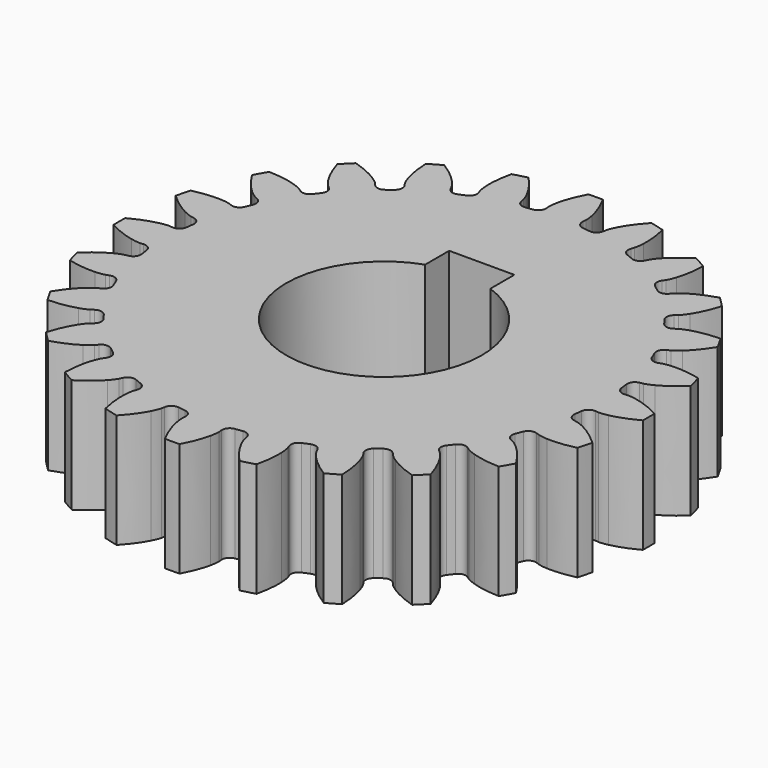
from build123d import *

# Parameters (mm, degrees)
PAD_DEPTH    = 7
POCKET_DEPTH = 7.001


with BuildPart() as part:
    # InvoluteGear → Pad (new body)
    with BuildSketch(Plane.XY):
        with BuildLine():
            Line((13.867609, -1.116726), (14.073733, -1.132384))
            add(Edge.make_bspline(
                [(14.073733, -1.132384), (14.136716, -1.133799), (14.326428, -1.130795), (14.642524, -1.063764)],
                knots=[0, 0, 0, 0, 1, 1, 1, 1], degree=3))
            add(Edge.make_bspline(
                [(14.642524, -1.063764), (15.021094, -0.982429), (15.567401, -0.810008), (16.245165, -0.446688)],
                knots=[0, 0, 0, 0, 1, 1, 1, 1], degree=3))
            ThreePointArc((16.245165, -0.446688), (16.250653, 0.000246), (16.243846, 0.447163))
            add(Edge.make_bspline(
                [(16.243846, 0.447163), (15.567401, 0.810008), (15.021094, 0.982429), (14.642524, 1.063764)],
                knots=[0, 0, 0, 0, 1, 1, 1, 1], degree=3))
            add(Edge.make_bspline(
                [(14.642524, 1.063764), (14.326428, 1.130795), (14.136716, 1.133799), (14.073733, 1.132384)],
                knots=[0, 0, 0, 0, 1, 1, 1, 1], degree=3))
            Line((14.073733, 1.132384), (13.867609, 1.116726))
            ThreePointArc((13.867609, 1.116726), (13.523014, 1.219895), (13.349538, 1.535006))
            ThreePointArc((13.349538, 1.535006), (13.32254, 1.753946), (13.291952, 1.972413))
            ThreePointArc((13.291952, 1.972413), (13.377961, 2.321686), (13.684112, 2.510527))
            Line((13.684112, 2.510527), (13.887265, 2.548751))
            add(Edge.make_bspline(
                [(13.887265, 2.548751), (13.948467, 2.563686), (14.130938, 2.615688), (14.418915, 2.762247)],
                knots=[0, 0, 0, 0, 1, 1, 1, 1], degree=3))
            add(Edge.make_bspline(
                [(14.418915, 2.762247), (14.763534, 2.938791), (15.246601, 3.246732), (15.807236, 3.773091)],
                knots=[0, 0, 0, 0, 1, 1, 1, 1], degree=3))
            ThreePointArc((15.807236, 3.773091), (15.696862, 4.206216), (15.574617, 4.636143))
            add(Edge.make_bspline(
                [(15.574617, 4.636143), (14.827309, 4.811548), (14.254991, 4.836699), (13.86827, 4.817282)],
                knots=[0, 0, 0, 0, 1, 1, 1, 1], degree=3))
            add(Edge.make_bspline(
                [(13.86827, 4.817282), (13.545595, 4.800217), (13.36157, 4.754017), (13.3011, 4.73635)],
                knots=[0, 0, 0, 0, 1, 1, 1, 1], degree=3))
            Line((13.3011, 4.73635), (13.106052, 4.667875))
            ThreePointArc((13.106052, 4.667875), (12.746497, 4.678341), (12.497375, 4.937817))
            ThreePointArc((12.497375, 4.937817), (12.414631, 5.142309), (12.328542, 5.345415))
            ThreePointArc((12.328542, 5.345415), (12.321221, 5.705047), (12.568065, 5.966692))
            Line((12.568065, 5.966692), (12.754403, 6.056193))
            add(Edge.make_bspline(
                [(12.754403, 6.056193), (12.809654, 6.08646), (12.972448, 6.183916), (13.21268, 6.400015)],
                knots=[0, 0, 0, 0, 1, 1, 1, 1], degree=3))
            add(Edge.make_bspline(
                [(13.21268, 6.400015), (13.499864, 6.659738), (13.886769, 7.082213), (14.29207, 7.73574)],
                knots=[0, 0, 0, 0, 1, 1, 1, 1], degree=3))
            ThreePointArc((14.29207, 7.73574), (14.073355, 8.12554), (13.844002, 8.509177))
            add(Edge.make_bspline(
                [(13.844002, 8.509177), (13.076761, 8.485188), (12.517434, 8.361356), (12.148916, 8.242509)],
                knots=[0, 0, 0, 0, 1, 1, 1, 1], degree=3))
            add(Edge.make_bspline(
                [(12.148916, 8.242509), (11.841653, 8.142511), (11.675856, 8.050256), (11.622018, 8.01754)],
                knots=[0, 0, 0, 0, 1, 1, 1, 1], degree=3))
            Line((11.622018, 8.01754), (11.451339, 7.900917))
            ThreePointArc((11.451339, 7.900917), (11.101327, 7.817967), (10.793536, 8.004123))
            ThreePointArc((10.793536, 8.004123), (10.660686, 8.180232), (10.524962, 8.354135))
            ThreePointArc((10.524962, 8.354135), (10.424811, 8.699619), (10.595525, 9.016236))
            Line((10.595525, 9.016236), (10.752349, 9.150916))
            add(Edge.make_bspline(
                [(10.752349, 9.150916), (10.797884, 9.194451), (10.929907, 9.330721), (11.106023, 9.601633)],
                knots=[0, 0, 0, 0, 1, 1, 1, 1], degree=3))
            add(Edge.make_bspline(
                [(11.106023, 9.601633), (11.3162, 9.926835), (11.580577, 10.435053), (11.802923, 11.171211)],
                knots=[0, 0, 0, 0, 1, 1, 1, 1], degree=3))
            ThreePointArc((11.802923, 11.171211), (11.490773, 11.491121), (11.169942, 11.802326))
            add(Edge.make_bspline(
                [(11.169942, 11.802326), (10.435053, 11.580577), (9.926835, 11.3162), (9.601633, 11.106023)],
                knots=[0, 0, 0, 0, 1, 1, 1, 1], degree=3))
            add(Edge.make_bspline(
                [(9.601633, 11.106023), (9.330721, 10.929907), (9.194451, 10.797884), (9.150916, 10.752349)],
                knots=[0, 0, 0, 0, 1, 1, 1, 1], degree=3))
            Line((9.150916, 10.752349), (9.016236, 10.595525))
            ThreePointArc((9.016236, 10.595525), (8.699619, 10.424811), (8.354135, 10.524962))
            ThreePointArc((8.354135, 10.524962), (8.180232, 10.660686), (8.004123, 10.793536))
            ThreePointArc((8.004123, 10.793536), (7.817967, 11.101327), (7.900917, 11.451339))
            Line((7.900917, 11.451339), (8.01754, 11.622018))
            add(Edge.make_bspline(
                [(8.01754, 11.622018), (8.050256, 11.675856), (8.142511, 11.841653), (8.242509, 12.148916)],
                knots=[0, 0, 0, 0, 1, 1, 1, 1], degree=3))
            add(Edge.make_bspline(
                [(8.242509, 12.148916), (8.361356, 12.517434), (8.485188, 13.076761), (8.509426, 13.845382)],
                knots=[0, 0, 0, 0, 1, 1, 1, 1], degree=3))
            ThreePointArc((8.509426, 13.845382), (8.125113, 14.073602), (7.734669, 14.291165))
            add(Edge.make_bspline(
                [(7.734669, 14.291165), (7.082213, 13.886769), (6.659738, 13.499864), (6.400015, 13.21268)],
                knots=[0, 0, 0, 0, 1, 1, 1, 1], degree=3))
            add(Edge.make_bspline(
                [(6.400015, 13.21268), (6.183916, 12.972448), (6.08646, 12.809654), (6.056193, 12.754403)],
                knots=[0, 0, 0, 0, 1, 1, 1, 1], degree=3))
            Line((6.056193, 12.754403), (5.966692, 12.568065))
            ThreePointArc((5.966692, 12.568065), (5.705047, 12.321221), (5.345415, 12.328542))
            ThreePointArc((5.345415, 12.328542), (5.142309, 12.414631), (4.937817, 12.497375))
            ThreePointArc((4.937817, 12.497375), (4.678341, 12.746497), (4.667875, 13.106052))
            Line((4.667875, 13.106052), (4.73635, 13.3011))
            add(Edge.make_bspline(
                [(4.73635, 13.3011), (4.754017, 13.36157), (4.800217, 13.545595), (4.817282, 13.86827)],
                knots=[0, 0, 0, 0, 1, 1, 1, 1], degree=3))
            add(Edge.make_bspline(
                [(4.817282, 13.86827), (4.836699, 14.254991), (4.811548, 14.827309), (4.636026, 15.576014)],
                knots=[0, 0, 0, 0, 1, 1, 1, 1], degree=3))
            ThreePointArc((4.636026, 15.576014), (4.205741, 15.696989), (3.772291, 15.806085))
            add(Edge.make_bspline(
                [(3.772291, 15.806085), (3.246732, 15.246601), (2.938791, 14.763534), (2.762247, 14.418915)],
                knots=[0, 0, 0, 0, 1, 1, 1, 1], degree=3))
            add(Edge.make_bspline(
                [(2.762247, 14.418915), (2.615688, 14.130938), (2.563686, 13.948467), (2.548751, 13.887265)],
                knots=[0, 0, 0, 0, 1, 1, 1, 1], degree=3))
            Line((2.548751, 13.887265), (2.510527, 13.684112))
            ThreePointArc((2.510527, 13.684112), (2.321686, 13.377961), (1.972413, 13.291952))
            ThreePointArc((1.972413, 13.291952), (1.753946, 13.32254), (1.535006, 13.349538))
            ThreePointArc((1.535006, 13.349538), (1.219895, 13.523014), (1.116726, 13.867609))
            Line((1.116726, 13.867609), (1.132384, 14.073733))
            add(Edge.make_bspline(
                [(1.132384, 14.073733), (1.133799, 14.136716), (1.130795, 14.326428), (1.063764, 14.642524)],
                knots=[0, 0, 0, 0, 1, 1, 1, 1], degree=3))
            add(Edge.make_bspline(
                [(1.063764, 14.642524), (0.982429, 15.021094), (0.810008, 15.567401), (0.446688, 16.245165)],
                knots=[0, 0, 0, 0, 1, 1, 1, 1], degree=3))
            ThreePointArc((0.446688, 16.245165), (-0.000246, 16.250653), (-0.447163, 16.243846))
            add(Edge.make_bspline(
                [(-0.447163, 16.243846), (-0.810008, 15.567401), (-0.982429, 15.021094), (-1.063764, 14.642524)],
                knots=[0, 0, 0, 0, 1, 1, 1, 1], degree=3))
            add(Edge.make_bspline(
                [(-1.063764, 14.642524), (-1.130795, 14.326428), (-1.133799, 14.136716), (-1.132384, 14.073733)],
                knots=[0, 0, 0, 0, 1, 1, 1, 1], degree=3))
            Line((-1.132384, 14.073733), (-1.116726, 13.867609))
            ThreePointArc((-1.116726, 13.867609), (-1.219895, 13.523014), (-1.535006, 13.349538))
            ThreePointArc((-1.535006, 13.349538), (-1.753946, 13.32254), (-1.972413, 13.291952))
            ThreePointArc((-1.972413, 13.291952), (-2.321686, 13.377961), (-2.510527, 13.684112))
            Line((-2.510527, 13.684112), (-2.548751, 13.887265))
            add(Edge.make_bspline(
                [(-2.548751, 13.887265), (-2.563686, 13.948467), (-2.615688, 14.130938), (-2.762247, 14.418915)],
                knots=[0, 0, 0, 0, 1, 1, 1, 1], degree=3))
            add(Edge.make_bspline(
                [(-2.762247, 14.418915), (-2.938791, 14.763534), (-3.246732, 15.246601), (-3.773091, 15.807236)],
                knots=[0, 0, 0, 0, 1, 1, 1, 1], degree=3))
            ThreePointArc((-3.773091, 15.807236), (-4.206216, 15.696862), (-4.636143, 15.574617))
            add(Edge.make_bspline(
                [(-4.636143, 15.574617), (-4.811548, 14.827309), (-4.836699, 14.254991), (-4.817282, 13.86827)],
                knots=[0, 0, 0, 0, 1, 1, 1, 1], degree=3))
            add(Edge.make_bspline(
                [(-4.817282, 13.86827), (-4.800217, 13.545595), (-4.754017, 13.36157), (-4.73635, 13.3011)],
                knots=[0, 0, 0, 0, 1, 1, 1, 1], degree=3))
            Line((-4.73635, 13.3011), (-4.667875, 13.106052))
            ThreePointArc((-4.667875, 13.106052), (-4.678341, 12.746497), (-4.937817, 12.497375))
            ThreePointArc((-4.937817, 12.497375), (-5.142309, 12.414631), (-5.345415, 12.328542))
            ThreePointArc((-5.345415, 12.328542), (-5.705047, 12.321221), (-5.966692, 12.568065))
            Line((-5.966692, 12.568065), (-6.056193, 12.754403))
            add(Edge.make_bspline(
                [(-6.056193, 12.754403), (-6.08646, 12.809654), (-6.183916, 12.972448), (-6.400015, 13.21268)],
                knots=[0, 0, 0, 0, 1, 1, 1, 1], degree=3))
            add(Edge.make_bspline(
                [(-6.400015, 13.21268), (-6.659738, 13.499864), (-7.082213, 13.886769), (-7.73574, 14.29207)],
                knots=[0, 0, 0, 0, 1, 1, 1, 1], degree=3))
            ThreePointArc((-7.73574, 14.29207), (-8.12554, 14.073355), (-8.509177, 13.844002))
            add(Edge.make_bspline(
                [(-8.509177, 13.844002), (-8.485188, 13.076761), (-8.361356, 12.517434), (-8.242509, 12.148916)],
                knots=[0, 0, 0, 0, 1, 1, 1, 1], degree=3))
            add(Edge.make_bspline(
                [(-8.242509, 12.148916), (-8.142511, 11.841653), (-8.050256, 11.675856), (-8.01754, 11.622018)],
                knots=[0, 0, 0, 0, 1, 1, 1, 1], degree=3))
            Line((-8.01754, 11.622018), (-7.900917, 11.451339))
            ThreePointArc((-7.900917, 11.451339), (-7.817967, 11.101327), (-8.004123, 10.793536))
            ThreePointArc((-8.004123, 10.793536), (-8.180232, 10.660686), (-8.354135, 10.524962))
            ThreePointArc((-8.354135, 10.524962), (-8.699619, 10.424811), (-9.016236, 10.595525))
            Line((-9.016236, 10.595525), (-9.150916, 10.752349))
            add(Edge.make_bspline(
                [(-9.150916, 10.752349), (-9.194451, 10.797884), (-9.330721, 10.929907), (-9.601633, 11.106023)],
                knots=[0, 0, 0, 0, 1, 1, 1, 1], degree=3))
            add(Edge.make_bspline(
                [(-9.601633, 11.106023), (-9.926835, 11.3162), (-10.435053, 11.580577), (-11.171211, 11.802923)],
                knots=[0, 0, 0, 0, 1, 1, 1, 1], degree=3))
            ThreePointArc((-11.171211, 11.802923), (-11.491121, 11.490773), (-11.802326, 11.169942))
            add(Edge.make_bspline(
                [(-11.802326, 11.169942), (-11.580577, 10.435053), (-11.3162, 9.926835), (-11.106023, 9.601633)],
                knots=[0, 0, 0, 0, 1, 1, 1, 1], degree=3))
            add(Edge.make_bspline(
                [(-11.106023, 9.601633), (-10.929907, 9.330721), (-10.797884, 9.194451), (-10.752349, 9.150916)],
                knots=[0, 0, 0, 0, 1, 1, 1, 1], degree=3))
            Line((-10.752349, 9.150916), (-10.595525, 9.016236))
            ThreePointArc((-10.595525, 9.016236), (-10.424811, 8.699619), (-10.524962, 8.354135))
            ThreePointArc((-10.524962, 8.354135), (-10.660686, 8.180232), (-10.793536, 8.004123))
            ThreePointArc((-10.793536, 8.004123), (-11.101327, 7.817967), (-11.451339, 7.900917))
            Line((-11.451339, 7.900917), (-11.622018, 8.01754))
            add(Edge.make_bspline(
                [(-11.622018, 8.01754), (-11.675856, 8.050256), (-11.841653, 8.142511), (-12.148916, 8.242509)],
                knots=[0, 0, 0, 0, 1, 1, 1, 1], degree=3))
            add(Edge.make_bspline(
                [(-12.148916, 8.242509), (-12.517434, 8.361356), (-13.076761, 8.485188), (-13.845382, 8.509426)],
                knots=[0, 0, 0, 0, 1, 1, 1, 1], degree=3))
            ThreePointArc((-13.845382, 8.509426), (-14.073602, 8.125113), (-14.291165, 7.734669))
            add(Edge.make_bspline(
                [(-14.291165, 7.734669), (-13.886769, 7.082213), (-13.499864, 6.659738), (-13.21268, 6.400015)],
                knots=[0, 0, 0, 0, 1, 1, 1, 1], degree=3))
            add(Edge.make_bspline(
                [(-13.21268, 6.400015), (-12.972448, 6.183916), (-12.809654, 6.08646), (-12.754403, 6.056193)],
                knots=[0, 0, 0, 0, 1, 1, 1, 1], degree=3))
            Line((-12.754403, 6.056193), (-12.568065, 5.966692))
            ThreePointArc((-12.568065, 5.966692), (-12.321221, 5.705047), (-12.328542, 5.345415))
            ThreePointArc((-12.328542, 5.345415), (-12.414631, 5.142309), (-12.497375, 4.937817))
            ThreePointArc((-12.497375, 4.937817), (-12.746497, 4.678341), (-13.106052, 4.667875))
            Line((-13.106052, 4.667875), (-13.3011, 4.73635))
            add(Edge.make_bspline(
                [(-13.3011, 4.73635), (-13.36157, 4.754017), (-13.545595, 4.800217), (-13.86827, 4.817282)],
                knots=[0, 0, 0, 0, 1, 1, 1, 1], degree=3))
            add(Edge.make_bspline(
                [(-13.86827, 4.817282), (-14.254991, 4.836699), (-14.827309, 4.811548), (-15.576014, 4.636026)],
                knots=[0, 0, 0, 0, 1, 1, 1, 1], degree=3))
            ThreePointArc((-15.576014, 4.636026), (-15.696989, 4.205741), (-15.806085, 3.772291))
            add(Edge.make_bspline(
                [(-15.806085, 3.772291), (-15.246601, 3.246732), (-14.763534, 2.938791), (-14.418915, 2.762247)],
                knots=[0, 0, 0, 0, 1, 1, 1, 1], degree=3))
            add(Edge.make_bspline(
                [(-14.418915, 2.762247), (-14.130938, 2.615688), (-13.948467, 2.563686), (-13.887265, 2.548751)],
                knots=[0, 0, 0, 0, 1, 1, 1, 1], degree=3))
            Line((-13.887265, 2.548751), (-13.684112, 2.510527))
            ThreePointArc((-13.684112, 2.510527), (-13.377961, 2.321686), (-13.291952, 1.972413))
            ThreePointArc((-13.291952, 1.972413), (-13.32254, 1.753946), (-13.349538, 1.535006))
            ThreePointArc((-13.349538, 1.535006), (-13.523014, 1.219895), (-13.867609, 1.116726))
            Line((-13.867609, 1.116726), (-14.073733, 1.132384))
            add(Edge.make_bspline(
                [(-14.073733, 1.132384), (-14.136716, 1.133799), (-14.326428, 1.130795), (-14.642524, 1.063764)],
                knots=[0, 0, 0, 0, 1, 1, 1, 1], degree=3))
            add(Edge.make_bspline(
                [(-14.642524, 1.063764), (-15.021094, 0.982429), (-15.567401, 0.810008), (-16.245165, 0.446688)],
                knots=[0, 0, 0, 0, 1, 1, 1, 1], degree=3))
            ThreePointArc((-16.245165, 0.446688), (-16.250653, -0.000246), (-16.243846, -0.447163))
            add(Edge.make_bspline(
                [(-16.243846, -0.447163), (-15.567401, -0.810008), (-15.021094, -0.982429), (-14.642524, -1.063764)],
                knots=[0, 0, 0, 0, 1, 1, 1, 1], degree=3))
            add(Edge.make_bspline(
                [(-14.642524, -1.063764), (-14.326428, -1.130795), (-14.136716, -1.133799), (-14.073733, -1.132384)],
                knots=[0, 0, 0, 0, 1, 1, 1, 1], degree=3))
            Line((-14.073733, -1.132384), (-13.867609, -1.116726))
            ThreePointArc((-13.867609, -1.116726), (-13.523014, -1.219895), (-13.349538, -1.535006))
            ThreePointArc((-13.349538, -1.535006), (-13.32254, -1.753946), (-13.291952, -1.972413))
            ThreePointArc((-13.291952, -1.972413), (-13.377961, -2.321686), (-13.684112, -2.510527))
            Line((-13.684112, -2.510527), (-13.887265, -2.548751))
            add(Edge.make_bspline(
                [(-13.887265, -2.548751), (-13.948467, -2.563686), (-14.130938, -2.615688), (-14.418915, -2.762247)],
                knots=[0, 0, 0, 0, 1, 1, 1, 1], degree=3))
            add(Edge.make_bspline(
                [(-14.418915, -2.762247), (-14.763534, -2.938791), (-15.246601, -3.246732), (-15.807236, -3.773091)],
                knots=[0, 0, 0, 0, 1, 1, 1, 1], degree=3))
            ThreePointArc((-15.807236, -3.773091), (-15.696862, -4.206216), (-15.574617, -4.636143))
            add(Edge.make_bspline(
                [(-15.574617, -4.636143), (-14.827309, -4.811548), (-14.254991, -4.836699), (-13.86827, -4.817282)],
                knots=[0, 0, 0, 0, 1, 1, 1, 1], degree=3))
            add(Edge.make_bspline(
                [(-13.86827, -4.817282), (-13.545595, -4.800217), (-13.36157, -4.754017), (-13.3011, -4.73635)],
                knots=[0, 0, 0, 0, 1, 1, 1, 1], degree=3))
            Line((-13.3011, -4.73635), (-13.106052, -4.667875))
            ThreePointArc((-13.106052, -4.667875), (-12.746497, -4.678341), (-12.497375, -4.937817))
            ThreePointArc((-12.497375, -4.937817), (-12.414631, -5.142309), (-12.328542, -5.345415))
            ThreePointArc((-12.328542, -5.345415), (-12.321221, -5.705047), (-12.568065, -5.966692))
            Line((-12.568065, -5.966692), (-12.754403, -6.056193))
            add(Edge.make_bspline(
                [(-12.754403, -6.056193), (-12.809654, -6.08646), (-12.972448, -6.183916), (-13.21268, -6.400015)],
                knots=[0, 0, 0, 0, 1, 1, 1, 1], degree=3))
            add(Edge.make_bspline(
                [(-13.21268, -6.400015), (-13.499864, -6.659738), (-13.886769, -7.082213), (-14.29207, -7.73574)],
                knots=[0, 0, 0, 0, 1, 1, 1, 1], degree=3))
            ThreePointArc((-14.29207, -7.73574), (-14.073355, -8.12554), (-13.844002, -8.509177))
            add(Edge.make_bspline(
                [(-13.844002, -8.509177), (-13.076761, -8.485188), (-12.517434, -8.361356), (-12.148916, -8.242509)],
                knots=[0, 0, 0, 0, 1, 1, 1, 1], degree=3))
            add(Edge.make_bspline(
                [(-12.148916, -8.242509), (-11.841653, -8.142511), (-11.675856, -8.050256), (-11.622018, -8.01754)],
                knots=[0, 0, 0, 0, 1, 1, 1, 1], degree=3))
            Line((-11.622018, -8.01754), (-11.451339, -7.900917))
            ThreePointArc((-11.451339, -7.900917), (-11.101327, -7.817967), (-10.793536, -8.004123))
            ThreePointArc((-10.793536, -8.004123), (-10.660686, -8.180232), (-10.524962, -8.354135))
            ThreePointArc((-10.524962, -8.354135), (-10.424811, -8.699619), (-10.595525, -9.016236))
            Line((-10.595525, -9.016236), (-10.752349, -9.150916))
            add(Edge.make_bspline(
                [(-10.752349, -9.150916), (-10.797884, -9.194451), (-10.929907, -9.330721), (-11.106023, -9.601633)],
                knots=[0, 0, 0, 0, 1, 1, 1, 1], degree=3))
            add(Edge.make_bspline(
                [(-11.106023, -9.601633), (-11.3162, -9.926835), (-11.580577, -10.435053), (-11.802923, -11.171211)],
                knots=[0, 0, 0, 0, 1, 1, 1, 1], degree=3))
            ThreePointArc((-11.802923, -11.171211), (-11.490773, -11.491121), (-11.169942, -11.802326))
            add(Edge.make_bspline(
                [(-11.169942, -11.802326), (-10.435053, -11.580577), (-9.926835, -11.3162), (-9.601633, -11.106023)],
                knots=[0, 0, 0, 0, 1, 1, 1, 1], degree=3))
            add(Edge.make_bspline(
                [(-9.601633, -11.106023), (-9.330721, -10.929907), (-9.194451, -10.797884), (-9.150916, -10.752349)],
                knots=[0, 0, 0, 0, 1, 1, 1, 1], degree=3))
            Line((-9.150916, -10.752349), (-9.016236, -10.595525))
            ThreePointArc((-9.016236, -10.595525), (-8.699619, -10.424811), (-8.354135, -10.524962))
            ThreePointArc((-8.354135, -10.524962), (-8.180232, -10.660686), (-8.004123, -10.793536))
            ThreePointArc((-8.004123, -10.793536), (-7.817967, -11.101327), (-7.900917, -11.451339))
            Line((-7.900917, -11.451339), (-8.01754, -11.622018))
            add(Edge.make_bspline(
                [(-8.01754, -11.622018), (-8.050256, -11.675856), (-8.142511, -11.841653), (-8.242509, -12.148916)],
                knots=[0, 0, 0, 0, 1, 1, 1, 1], degree=3))
            add(Edge.make_bspline(
                [(-8.242509, -12.148916), (-8.361356, -12.517434), (-8.485188, -13.076761), (-8.509426, -13.845382)],
                knots=[0, 0, 0, 0, 1, 1, 1, 1], degree=3))
            ThreePointArc((-8.509426, -13.845382), (-8.125113, -14.073602), (-7.734669, -14.291165))
            add(Edge.make_bspline(
                [(-7.734669, -14.291165), (-7.082213, -13.886769), (-6.659738, -13.499864), (-6.400015, -13.21268)],
                knots=[0, 0, 0, 0, 1, 1, 1, 1], degree=3))
            add(Edge.make_bspline(
                [(-6.400015, -13.21268), (-6.183916, -12.972448), (-6.08646, -12.809654), (-6.056193, -12.754403)],
                knots=[0, 0, 0, 0, 1, 1, 1, 1], degree=3))
            Line((-6.056193, -12.754403), (-5.966692, -12.568065))
            ThreePointArc((-5.966692, -12.568065), (-5.705047, -12.321221), (-5.345415, -12.328542))
            ThreePointArc((-5.345415, -12.328542), (-5.142309, -12.414631), (-4.937817, -12.497375))
            ThreePointArc((-4.937817, -12.497375), (-4.678341, -12.746497), (-4.667875, -13.106052))
            Line((-4.667875, -13.106052), (-4.73635, -13.3011))
            add(Edge.make_bspline(
                [(-4.73635, -13.3011), (-4.754017, -13.36157), (-4.800217, -13.545595), (-4.817282, -13.86827)],
                knots=[0, 0, 0, 0, 1, 1, 1, 1], degree=3))
            add(Edge.make_bspline(
                [(-4.817282, -13.86827), (-4.836699, -14.254991), (-4.811548, -14.827309), (-4.636026, -15.576014)],
                knots=[0, 0, 0, 0, 1, 1, 1, 1], degree=3))
            ThreePointArc((-4.636026, -15.576014), (-4.205741, -15.696989), (-3.772291, -15.806085))
            add(Edge.make_bspline(
                [(-3.772291, -15.806085), (-3.246732, -15.246601), (-2.938791, -14.763534), (-2.762247, -14.418915)],
                knots=[0, 0, 0, 0, 1, 1, 1, 1], degree=3))
            add(Edge.make_bspline(
                [(-2.762247, -14.418915), (-2.615688, -14.130938), (-2.563686, -13.948467), (-2.548751, -13.887265)],
                knots=[0, 0, 0, 0, 1, 1, 1, 1], degree=3))
            Line((-2.548751, -13.887265), (-2.510527, -13.684112))
            ThreePointArc((-2.510527, -13.684112), (-2.321686, -13.377961), (-1.972413, -13.291952))
            ThreePointArc((-1.972413, -13.291952), (-1.753946, -13.32254), (-1.535006, -13.349538))
            ThreePointArc((-1.535006, -13.349538), (-1.219895, -13.523014), (-1.116726, -13.867609))
            Line((-1.116726, -13.867609), (-1.132384, -14.073733))
            add(Edge.make_bspline(
                [(-1.132384, -14.073733), (-1.133799, -14.136716), (-1.130795, -14.326428), (-1.063764, -14.642524)],
                knots=[0, 0, 0, 0, 1, 1, 1, 1], degree=3))
            add(Edge.make_bspline(
                [(-1.063764, -14.642524), (-0.982429, -15.021094), (-0.810008, -15.567401), (-0.446688, -16.245165)],
                knots=[0, 0, 0, 0, 1, 1, 1, 1], degree=3))
            ThreePointArc((-0.446688, -16.245165), (0.000246, -16.250653), (0.447163, -16.243846))
            add(Edge.make_bspline(
                [(0.447163, -16.243846), (0.810008, -15.567401), (0.982429, -15.021094), (1.063764, -14.642524)],
                knots=[0, 0, 0, 0, 1, 1, 1, 1], degree=3))
            add(Edge.make_bspline(
                [(1.063764, -14.642524), (1.130795, -14.326428), (1.133799, -14.136716), (1.132384, -14.073733)],
                knots=[0, 0, 0, 0, 1, 1, 1, 1], degree=3))
            Line((1.132384, -14.073733), (1.116726, -13.867609))
            ThreePointArc((1.116726, -13.867609), (1.219895, -13.523014), (1.535006, -13.349538))
            ThreePointArc((1.535006, -13.349538), (1.753946, -13.32254), (1.972413, -13.291952))
            ThreePointArc((1.972413, -13.291952), (2.321686, -13.377961), (2.510527, -13.684112))
            Line((2.510527, -13.684112), (2.548751, -13.887265))
            add(Edge.make_bspline(
                [(2.548751, -13.887265), (2.563686, -13.948467), (2.615688, -14.130938), (2.762247, -14.418915)],
                knots=[0, 0, 0, 0, 1, 1, 1, 1], degree=3))
            add(Edge.make_bspline(
                [(2.762247, -14.418915), (2.938791, -14.763534), (3.246732, -15.246601), (3.773091, -15.807236)],
                knots=[0, 0, 0, 0, 1, 1, 1, 1], degree=3))
            ThreePointArc((3.773091, -15.807236), (4.206216, -15.696862), (4.636143, -15.574617))
            add(Edge.make_bspline(
                [(4.636143, -15.574617), (4.811548, -14.827309), (4.836699, -14.254991), (4.817282, -13.86827)],
                knots=[0, 0, 0, 0, 1, 1, 1, 1], degree=3))
            add(Edge.make_bspline(
                [(4.817282, -13.86827), (4.800217, -13.545595), (4.754017, -13.36157), (4.73635, -13.3011)],
                knots=[0, 0, 0, 0, 1, 1, 1, 1], degree=3))
            Line((4.73635, -13.3011), (4.667875, -13.106052))
            ThreePointArc((4.667875, -13.106052), (4.678341, -12.746497), (4.937817, -12.497375))
            ThreePointArc((4.937817, -12.497375), (5.142309, -12.414631), (5.345415, -12.328542))
            ThreePointArc((5.345415, -12.328542), (5.705047, -12.321221), (5.966692, -12.568065))
            Line((5.966692, -12.568065), (6.056193, -12.754403))
            add(Edge.make_bspline(
                [(6.056193, -12.754403), (6.08646, -12.809654), (6.183916, -12.972448), (6.400015, -13.21268)],
                knots=[0, 0, 0, 0, 1, 1, 1, 1], degree=3))
            add(Edge.make_bspline(
                [(6.400015, -13.21268), (6.659738, -13.499864), (7.082213, -13.886769), (7.73574, -14.29207)],
                knots=[0, 0, 0, 0, 1, 1, 1, 1], degree=3))
            ThreePointArc((7.73574, -14.29207), (8.12554, -14.073355), (8.509177, -13.844002))
            add(Edge.make_bspline(
                [(8.509177, -13.844002), (8.485188, -13.076761), (8.361356, -12.517434), (8.242509, -12.148916)],
                knots=[0, 0, 0, 0, 1, 1, 1, 1], degree=3))
            add(Edge.make_bspline(
                [(8.242509, -12.148916), (8.142511, -11.841653), (8.050256, -11.675856), (8.01754, -11.622018)],
                knots=[0, 0, 0, 0, 1, 1, 1, 1], degree=3))
            Line((8.01754, -11.622018), (7.900917, -11.451339))
            ThreePointArc((7.900917, -11.451339), (7.817967, -11.101327), (8.004123, -10.793536))
            ThreePointArc((8.004123, -10.793536), (8.180232, -10.660686), (8.354135, -10.524962))
            ThreePointArc((8.354135, -10.524962), (8.699619, -10.424811), (9.016236, -10.595525))
            Line((9.016236, -10.595525), (9.150916, -10.752349))
            add(Edge.make_bspline(
                [(9.150916, -10.752349), (9.194451, -10.797884), (9.330721, -10.929907), (9.601633, -11.106023)],
                knots=[0, 0, 0, 0, 1, 1, 1, 1], degree=3))
            add(Edge.make_bspline(
                [(9.601633, -11.106023), (9.926835, -11.3162), (10.435053, -11.580577), (11.171211, -11.802923)],
                knots=[0, 0, 0, 0, 1, 1, 1, 1], degree=3))
            ThreePointArc((11.171211, -11.802923), (11.491121, -11.490773), (11.802326, -11.169942))
            add(Edge.make_bspline(
                [(11.802326, -11.169942), (11.580577, -10.435053), (11.3162, -9.926835), (11.106023, -9.601633)],
                knots=[0, 0, 0, 0, 1, 1, 1, 1], degree=3))
            add(Edge.make_bspline(
                [(11.106023, -9.601633), (10.929907, -9.330721), (10.797884, -9.194451), (10.752349, -9.150916)],
                knots=[0, 0, 0, 0, 1, 1, 1, 1], degree=3))
            Line((10.752349, -9.150916), (10.595525, -9.016236))
            ThreePointArc((10.595525, -9.016236), (10.424811, -8.699619), (10.524962, -8.354135))
            ThreePointArc((10.524962, -8.354135), (10.660686, -8.180232), (10.793536, -8.004123))
            ThreePointArc((10.793536, -8.004123), (11.101327, -7.817967), (11.451339, -7.900917))
            Line((11.451339, -7.900917), (11.622018, -8.01754))
            add(Edge.make_bspline(
                [(11.622018, -8.01754), (11.675856, -8.050256), (11.841653, -8.142511), (12.148916, -8.242509)],
                knots=[0, 0, 0, 0, 1, 1, 1, 1], degree=3))
            add(Edge.make_bspline(
                [(12.148916, -8.242509), (12.517434, -8.361356), (13.076761, -8.485188), (13.845382, -8.509426)],
                knots=[0, 0, 0, 0, 1, 1, 1, 1], degree=3))
            ThreePointArc((13.845382, -8.509426), (14.073602, -8.125113), (14.291165, -7.734669))
            add(Edge.make_bspline(
                [(14.291165, -7.734669), (13.886769, -7.082213), (13.499864, -6.659738), (13.21268, -6.400015)],
                knots=[0, 0, 0, 0, 1, 1, 1, 1], degree=3))
            add(Edge.make_bspline(
                [(13.21268, -6.400015), (12.972448, -6.183916), (12.809654, -6.08646), (12.754403, -6.056193)],
                knots=[0, 0, 0, 0, 1, 1, 1, 1], degree=3))
            Line((12.754403, -6.056193), (12.568065, -5.966692))
            ThreePointArc((12.568065, -5.966692), (12.321221, -5.705047), (12.328542, -5.345415))
            ThreePointArc((12.328542, -5.345415), (12.414631, -5.142309), (12.497375, -4.937817))
            ThreePointArc((12.497375, -4.937817), (12.746497, -4.678341), (13.106052, -4.667875))
            Line((13.106052, -4.667875), (13.3011, -4.73635))
            add(Edge.make_bspline(
                [(13.3011, -4.73635), (13.36157, -4.754017), (13.545595, -4.800217), (13.86827, -4.817282)],
                knots=[0, 0, 0, 0, 1, 1, 1, 1], degree=3))
            add(Edge.make_bspline(
                [(13.86827, -4.817282), (14.254991, -4.836699), (14.827309, -4.811548), (15.576014, -4.636026)],
                knots=[0, 0, 0, 0, 1, 1, 1, 1], degree=3))
            ThreePointArc((15.576014, -4.636026), (15.696989, -4.205741), (15.806085, -3.772291))
            add(Edge.make_bspline(
                [(15.806085, -3.772291), (15.246601, -3.246732), (14.763534, -2.938791), (14.418915, -2.762247)],
                knots=[0, 0, 0, 0, 1, 1, 1, 1], degree=3))
            add(Edge.make_bspline(
                [(14.418915, -2.762247), (14.130938, -2.615688), (13.948467, -2.563686), (13.887265, -2.548751)],
                knots=[0, 0, 0, 0, 1, 1, 1, 1], degree=3))
            Line((13.887265, -2.548751), (13.684112, -2.510527))
            ThreePointArc((13.684112, -2.510527), (13.377961, -2.321686), (13.291952, -1.972413))
            ThreePointArc((13.291952, -1.972413), (13.32254, -1.753946), (13.349538, -1.535006))
            ThreePointArc((13.349538, -1.535006), (13.523014, -1.219895), (13.867609, -1.116726))
        make_face()
    extrude(amount=PAD_DEPTH)

    # Sketch (on Face242 of Pad) → Pocket (cut, through all)
    with BuildSketch(Plane.XY.offset(7)):
        with BuildLine():
            ThreePointArc((-2, 5.656854), (0, -6), (2, 5.656854))
            Line((2, 7.5), (2, 5.656854))
            Line((-2, 7.5), (2, 7.5))
            Line((-2, 7.5), (-2, 5.656854))
        make_face()
    extrude(amount=-POCKET_DEPTH, mode=Mode.SUBTRACT)


solid = part.part
